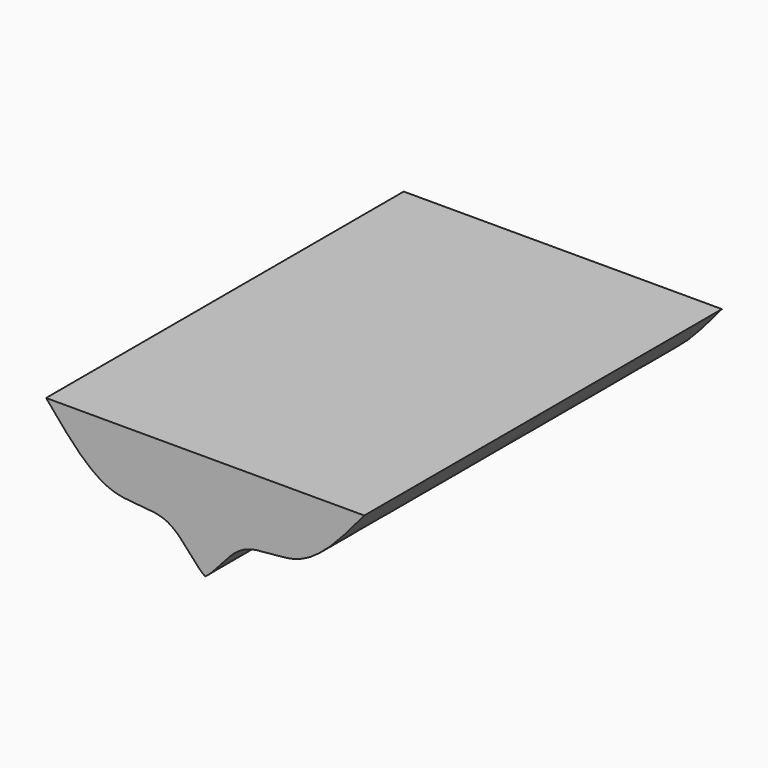
from build123d import *

# Parameters (mm, degrees)
F1_DEPTH      = 25.4
F1_DEPTH_BACK = 25.4


with BuildPart() as f1:
    # F0 (on Front) → F1 (new body, two sides)
    with BuildSketch(Plane.XZ) as f1_sk:
        with BuildLine():
            Line((-10.3967804462, 17.8553387523), (-28.4781362861, 17.8553387523))
            add(Edge.make_bspline(
                [(-28.4781362861, 17.8553387523), (-26.151010961, 15.0979154646), (-21.8178408804, 9.6096851294), (-14.1950475719, 11.3771317015), (-11.8199229442, 6.8708596616), (-10.3967804462, 5.8764405549)],
                knots=[0, 0, 0, 0, 0.3899151773, 0.7013007932, 1, 1, 1, 1], degree=3))
            Line((-10.3967804462, 5.8764405549), (-10.3967804462, 17.8553387523))
        make_face()
        with BuildLine():
            Line((-10.3967804462, 17.8553387523), (-10.3967804462, 5.8764405549))
            add(Edge.make_bspline(
                [(7.6845753938, 17.8553387523), (5.3574500686, 15.0979154646), (1.0242799881, 9.6096851294), (-6.5985133204, 11.3771317015), (-8.9736379481, 6.8708596616), (-10.3967804462, 5.8764405549)],
                knots=[0, 0, 0, 0, 0.3899151773, 0.7013007932, 1, 1, 1, 1], degree=3))
            Line((7.6845753938, 17.8553387523), (-10.3967804462, 17.8553387523))
        make_face()
    extrude(amount=F1_DEPTH)
    extrude(f1_sk.sketch, amount=-F1_DEPTH_BACK)


solid = f1.part
